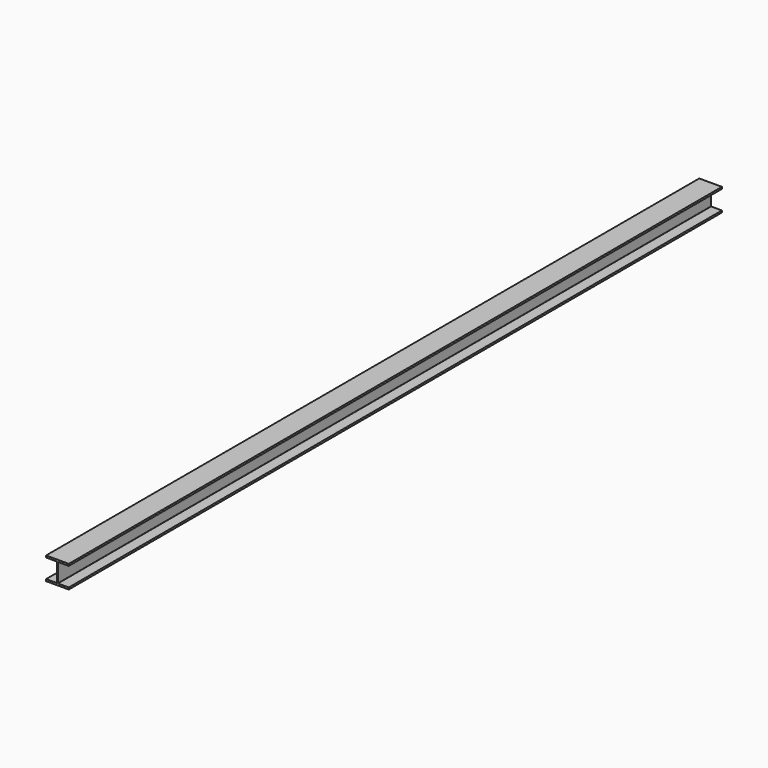
from build123d import *

# Parameters (mm, degrees)
F1_DEPTH = 10972.8


with BuildPart() as f1:
    # F0 (on Front) → F1 (new body)
    with BuildSketch(Plane.XZ):
        with BuildLine():
            Line((152.4, -152.4), (152.4, -127))
            Line((152.4, -127), (8.89, -127))
            ThreePointArc((8.89, -127), (7.093949, -126.256051), (6.35, -124.46))
            Line((6.35, -124.46), (6.35, 124.46))
            ThreePointArc((6.35, 124.46), (7.093949, 126.256051), (8.89, 127))
            Line((8.89, 127), (152.4, 127))
            Line((152.4, 127), (152.4, 152.4))
            Line((152.4, 152.4), (-152.4, 152.4))
            Line((-152.4, 152.4), (-152.4, 127))
            Line((-152.4, 127), (-8.89, 127))
            ThreePointArc((-8.89, 127), (-7.093949, 126.256051), (-6.35, 124.46))
            Line((-6.35, 124.46), (-6.35, -124.46))
            ThreePointArc((-6.35, -124.46), (-7.093949, -126.256051), (-8.89, -127))
            Line((-8.89, -127), (-152.4, -127))
            Line((-152.4, -127), (-152.4, -152.4))
            Line((-152.4, -152.4), (152.4, -152.4))
        make_face()
    extrude(amount=F1_DEPTH)


solid = f1.part
